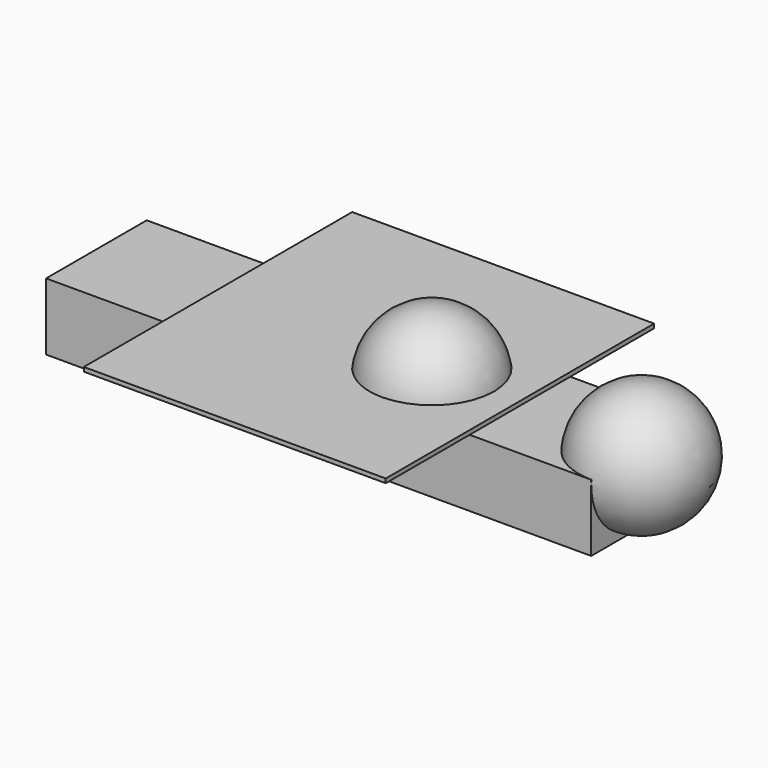
from build123d import *

# Parameters (mm, degrees)
PONTOON_LEFT_W      = 400
PONTOON_LEFT_H      = 150
PONTOON_LEFT_DEPTH  = 80
PONTOON_RIGHT_W     = 400
PONTOON_RIGHT_H     = 150
PONTOON_RIGHT_DEPTH = 80
DECK_W              = 360
DECK_H              = 400
DECK_DEPTH          = 5


with BuildPart() as nose_left:
    # Nose_Left → Nose_Left (revolve)
    with BuildSketch(Plane(origin=(75, 0, 75), x_dir=(1, 0, 0), z_dir=(0, -1, 0))):
        with BuildLine():
            ThreePointArc((0, -75), (75, 0), (0, 75))
            Line((0, 75), (0, -75))
        make_face()
    revolve(axis=Axis((75, 0, 75), (0, 0, 1)))


with BuildPart() as obj1:
    # Pontoon_Left → Pontoon_Left (new body)
    with BuildSketch(Plane(origin=(-325, -75, 0), x_dir=(1, 0, 0), z_dir=(0, 0, 1))):
        with Locations((200, 75)):
            Rectangle(PONTOON_LEFT_W, PONTOON_LEFT_H)
    extrude(amount=PONTOON_LEFT_DEPTH)

    # obj1: union Nose_Left
    add(nose_left.part)


with BuildPart() as nose_right:
    # Nose_Right → Nose_Right (revolve)
    with BuildSketch(Plane(origin=(325, 0, 75), x_dir=(1, 0, 0), z_dir=(0, -1, 0))):
        with BuildLine():
            ThreePointArc((0, -75), (75, 0), (0, 75))
            Line((0, 75), (0, -75))
        make_face()
    revolve(axis=Axis((325, 0, 75), (0, 0, 1)))


with BuildPart() as obj2:
    # Pontoon_Right → Pontoon_Right (new body)
    with BuildSketch(Plane(origin=(-75, -75, 0), x_dir=(1, 0, 0), z_dir=(0, 0, 1))):
        with Locations((200, 75)):
            Rectangle(PONTOON_RIGHT_W, PONTOON_RIGHT_H)
    extrude(amount=PONTOON_RIGHT_DEPTH)

    # obj2: union Nose_Right
    add(nose_right.part)


with BuildPart() as deck:
    # Deck → Deck (new body)
    with BuildSketch(Plane(origin=(-180, -200, 80), x_dir=(1, 0, 0), z_dir=(0, 0, 1))):
        with Locations((180, 200)):
            Rectangle(DECK_W, DECK_H)
    extrude(amount=DECK_DEPTH)


solid = Compound([obj1.part, obj2.part, deck.part])
